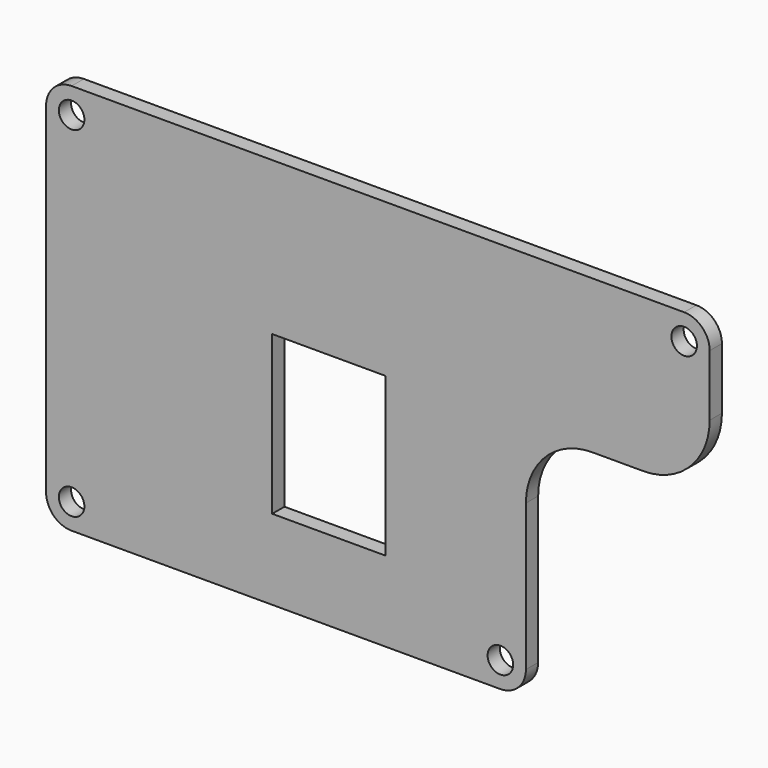
from build123d import *

# Parameters (mm, degrees)
F1_DEPTH  = 3
F2_W      = 22.2
F2_H      = 31
F3_DEPTH  = 25
F4_R      = 13
F5_R      = 13
F6_R      = 5
F7_R      = 5
F8_R      = 5
F9_R      = 5
F10_R     = 2.5
F11_DEPTH = 25
F12_R     = 2.5
F13_DEPTH = 25
F14_R     = 2.5
F15_DEPTH = 25
F16_R     = 2.5
F17_DEPTH = 25


with BuildPart() as f1:
    # F0 (on Front) → F1 (new body)
    with BuildSketch(Plane.XZ):
        Polygon((72.865328, 30), (-57.134672, 30), (-57.134672, -46.7), (36.865328, -46.7), (36.865328, 0), (72.865328, 0), align=None)
    extrude(amount=F1_DEPTH)

    # F2 (on face) → F3 (cut)
    with BuildSketch(Plane.XZ.offset(3)):
        with Locations((-1.734672, -15.5)):
            Rectangle(F2_W, F2_H)
    extrude(amount=-F3_DEPTH, mode=Mode.SUBTRACT)

    # F4
    f4_edges = [f1.edges().sort_by_distance(p)[0] for p in [
        (72.865328, -1.5, 0),
    ]]
    fillet(f4_edges, radius=F4_R)

    # F5
    f5_edges = [f1.edges().sort_by_distance(p)[0] for p in [
        (36.865328, -1.5, 0),
    ]]
    fillet(f5_edges, radius=F5_R)

    # F6
    f6_edges = [f1.edges().sort_by_distance(p)[0] for p in [
        (72.865328, -1.5, 30),
    ]]
    fillet(f6_edges, radius=F6_R)

    # F7
    f7_edges = [f1.edges().sort_by_distance(p)[0] for p in [
        (36.865328, -1.5, -46.7),
    ]]
    fillet(f7_edges, radius=F7_R)

    # F8
    f8_edges = [f1.edges().sort_by_distance(p)[0] for p in [
        (-57.134672, -1.5, -46.7),
    ]]
    fillet(f8_edges, radius=F8_R)

    # F9
    f9_edges = [f1.edges().sort_by_distance(p)[0] for p in [
        (-57.134672, -1.5, 30),
    ]]
    fillet(f9_edges, radius=F9_R)

    # F10 (on face) → F11 (cut)
    with BuildSketch(Plane.XZ.offset(3)):
        with Locations((-52.134672, 25)):
            Circle(F10_R)
    extrude(amount=-F11_DEPTH, mode=Mode.SUBTRACT)

    # F12 (on face) → F13 (cut)
    with BuildSketch(Plane.XZ.offset(3)):
        with Locations((67.865328, 25)):
            Circle(F12_R)
    extrude(amount=-F13_DEPTH, mode=Mode.SUBTRACT)

    # F14 (on face) → F15 (cut)
    with BuildSketch(Plane.XZ.offset(3)):
        with Locations((-52.134672, -41.7)):
            Circle(F14_R)
    extrude(amount=-F15_DEPTH, mode=Mode.SUBTRACT)

    # F16 (on face) → F17 (cut)
    with BuildSketch(Plane.XZ.offset(3)):
        with Locations((31.865328, -41.7)):
            Circle(F16_R)
    extrude(amount=-F17_DEPTH, mode=Mode.SUBTRACT)


solid = f1.part
